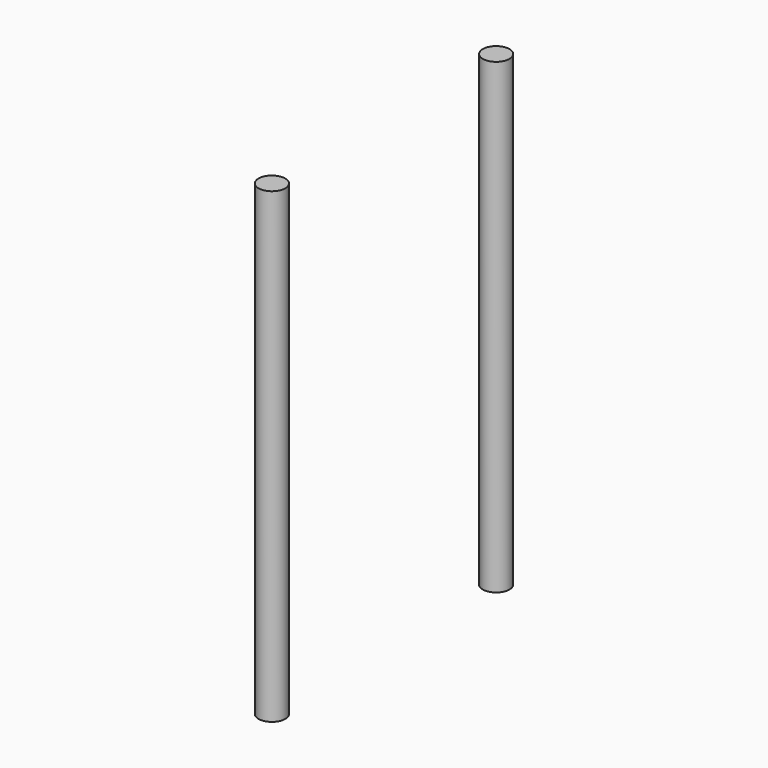
from build123d import *

# Parameters (mm, degrees)
CYLINDER364_R     = 2
CYLINDER364_DEPTH = 70
CYLINDER365_R     = 2
CYLINDER365_DEPTH = 70


with BuildPart() as cylinder364:
    # Cylinder364 → Cylinder364 (new body)
    with BuildSketch(Plane(origin=(-90, -103, -10), x_dir=(1, 0, 0), z_dir=(0, 0, 1))):
        Circle(CYLINDER364_R)
    extrude(amount=CYLINDER364_DEPTH)


with BuildPart() as fusion366:
    # Cylinder365 → Cylinder365 (new body)
    with BuildSketch(Plane(origin=(-90, -61, -10), x_dir=(1, 0, 0), z_dir=(0, 0, 1))):
        Circle(CYLINDER365_R)
    extrude(amount=CYLINDER365_DEPTH)

    # Fusion366: union Cylinder364
    add(cylinder364.part)


with BuildPart() as fusion366_1:
    # Fusion366 placement: moved
    add(fusion366.part.moved(Location((114, 123, 0))))


solid = fusion366_1.part
